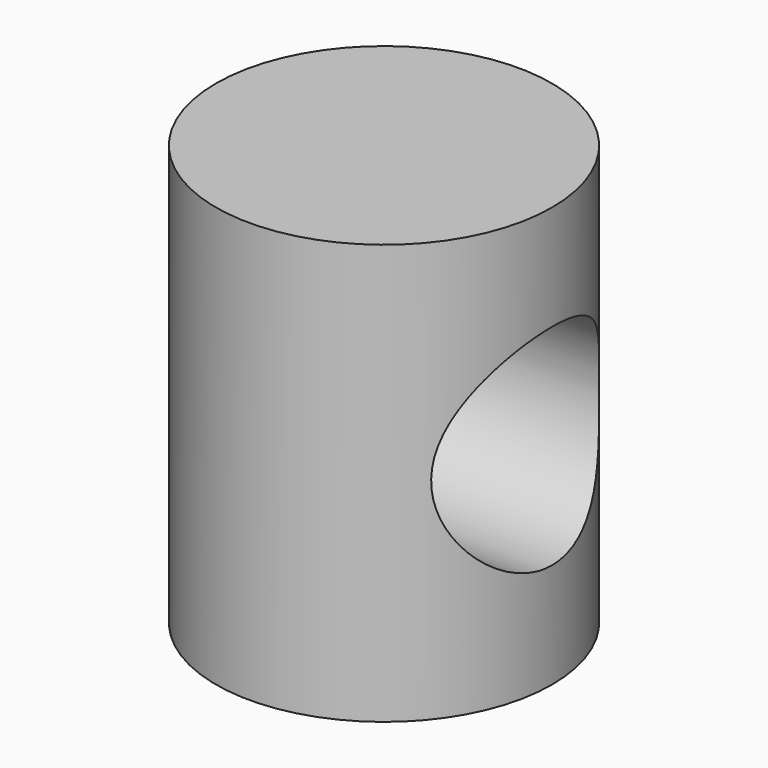
from build123d import *

# Parameters (mm, degrees)
F0_R     = 12.7
F1_DEPTH = 15.875
F2_R     = 7.9375
F3_DEPTH = 12.7


with BuildPart() as f1:
    # F0 (on Top) → F1 (new body, symmetric)
    with BuildSketch(Plane.XY):
        Circle(F0_R)
    extrude(amount=F1_DEPTH, both=True)

    # F2 (on Right) → F3 (cut, symmetric)
    with BuildSketch(Plane.YZ):
        Circle(F2_R)
    extrude(amount=F3_DEPTH, both=True, mode=Mode.SUBTRACT)


solid = f1.part
